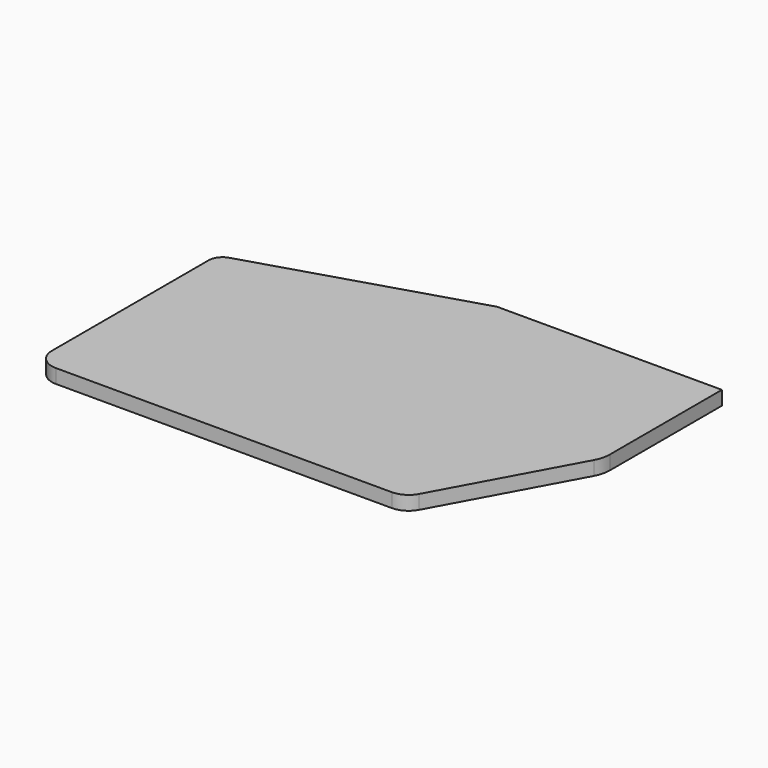
from build123d import *

# Parameters (mm, degrees)
F1_DEPTH = 6.35


with BuildPart() as f1:
    # F0 (on Top) → F1 (new body)
    with BuildSketch(Plane.XY):
        with BuildLine():
            Line((102.076006, 3.715036), (102.076006, 67.215036))
            Line((102.076006, 67.215036), (0.476006, 67.215036))
            ThreePointArc((0.476006, 67.215036), (0.005261, 67.179945), (-0.455078, 67.075446))
            Line((-0.455078, 67.075446), (-97.588172, 37.280782))
            ThreePointArc((-97.588172, 37.280782), (-100.83224, 34.984731), (-102.076006, 31.209964))
            Line((-102.076006, 31.209964), (-102.076006, -57.690036))
            ThreePointArc((-102.076006, -57.690036), (-99.286198, -64.425229), (-92.551006, -67.215036))
            Line((-92.551006, -67.215036), (59.848994, -67.215036))
            ThreePointArc((59.848994, -67.215036), (64.715738, -65.877858), (68.216035, -62.241767))
            Line((68.216035, -62.241767), (100.300694, -3.263398))
            ThreePointArc((100.300694, -3.263398), (101.62522, 0.11468), (102.076006, 3.715036))
        make_face()
    extrude(amount=F1_DEPTH)


solid = f1.part
